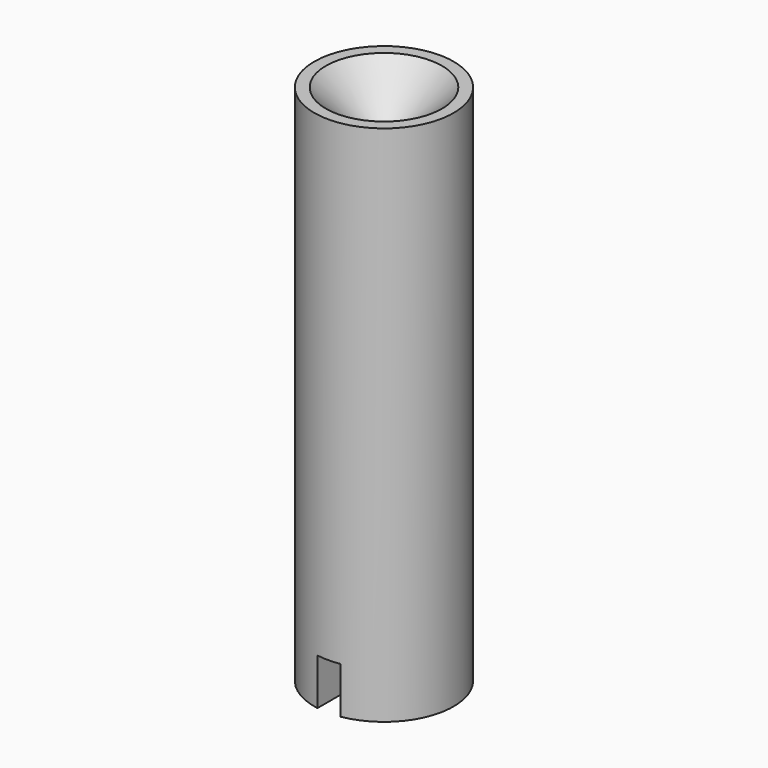
from build123d import *

# Parameters (mm, degrees)
F2_W     = 1
F2_H     = 9.471692
F3_DEPTH = 2


with BuildPart() as f1:
    # F0 (on Front) → F1 (revolve)
    with BuildSketch(Plane.XZ):
        Polygon((-3, 0), (0, 0), (0, 20), (-2.5, 22.5), (-3, 22.5), align=None)
    revolve(axis=Axis((0, 0, 10), (0, 0, -1)))

    # F2 (on face) → F3 (cut)
    with BuildSketch(Plane(origin=(0, 0, 0), x_dir=(1, 0, 0), z_dir=(0, 0, -1))):
        Rectangle(F2_W, F2_H)
    extrude(amount=-F3_DEPTH, mode=Mode.SUBTRACT)


solid = f1.part
